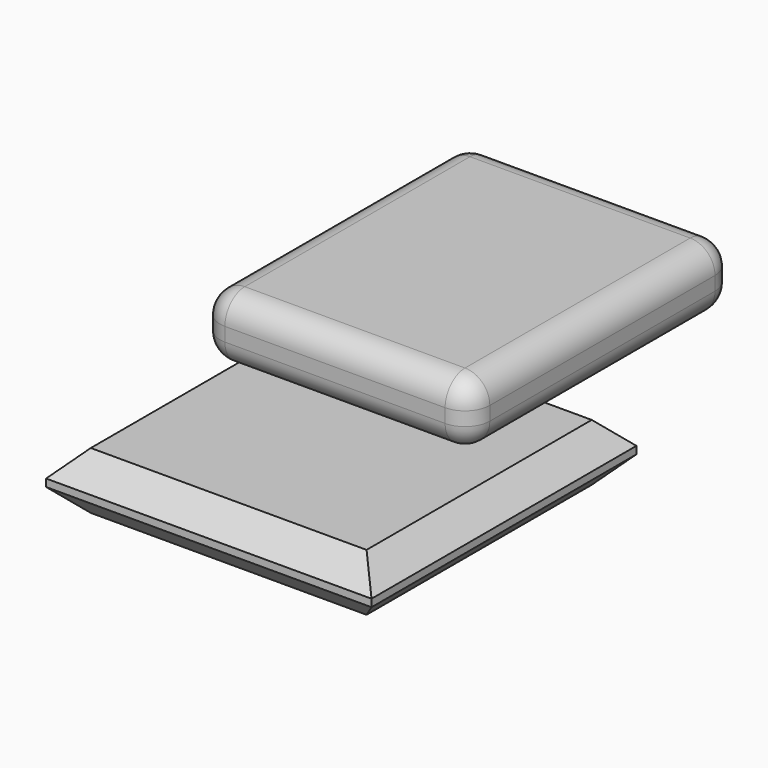
from build123d import *

# Parameters (mm, degrees)
F0_W     = 49.930133
F0_H     = 8.76822
F0_W_2   = 41.40548
F0_H_2   = 9.742465
F1_DEPTH = 50.8
F2_R     = 3.81
F3_SIZE  = 3.81


with BuildPart() as f1:
    # F0 (on Front) → F1 (new body)
    with BuildSketch(Plane.XZ):
        with Locations((-30.079864, -12.543425)):
            Rectangle(F0_W, F0_H)
        with Locations((-10.716712, 16.440411)):
            Rectangle(F0_W_2, F0_H_2)
    extrude(amount=F1_DEPTH)

    # F2
    f2_edges = [f1.edges().sort_by_distance(p)[0] for p in [
        (-10.716712, 0, 21.311644),
        (9.986028, -25.4, 21.311644),
        (-10.716712, -50.8, 21.311644),
        (-31.419452, -25.4, 21.311644),
        (9.986028, -50.8, 16.440412),
        (-31.419452, -50.8, 16.440412),
        (-10.716712, -50.8, 11.569179),
        (9.986028, -25.4, 11.569179),
        (9.986028, 0, 16.440412),
        (-31.419452, 0, 16.440412),
        (-10.716712, 0, 11.569179),
        (-31.419452, -25.4, 11.569179),
    ]]
    fillet(f2_edges, radius=F2_R)

    # F3
    f3_edges = [f1.edges().sort_by_distance(p)[0] for p in [
        (-30.079863, 0, -8.159315),
        (-30.079863, 0, -16.927535),
        (-55.04493, -25.4, -8.159315),
        (-55.04493, -25.4, -16.927535),
        (-5.114797, -25.4, -8.159315),
        (-30.079863, -50.8, -8.159315),
        (-30.079863, -50.8, -16.927535),
        (-5.114797, -25.4, -16.927535),
    ]]
    chamfer(f3_edges, length=F3_SIZE)


solid = f1.part
